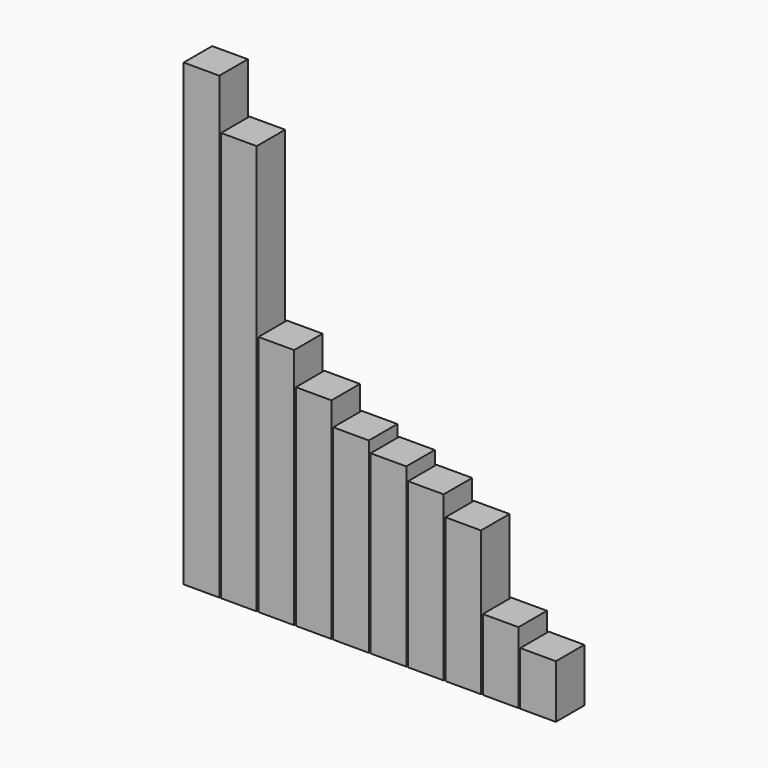
from build123d import *

# Parameters (mm, degrees)
F0_W      = 5.08
F0_H      = 5.08
F2_DEPTH  = 65.532
F1_W      = 5.08
F1_H      = 5.08
F3_DEPTH  = 58.42
F4_DEPTH  = 34.544
F5_DEPTH  = 29.972
F6_DEPTH  = 26.67
F7_DEPTH  = 25.146
F8_DEPTH  = 23.368
F9_DEPTH  = 20.574
F10_DEPTH = 10.16
F11_DEPTH = 7.62


with BuildPart() as f2:
    # F0 (on Top) → F2 (new body)
    with BuildSketch(Plane.XY):
        with Locations((2.54, -2.54)):
            Rectangle(F0_W, F0_H)
    extrude(amount=F2_DEPTH)


with BuildPart() as f3:
    # F1 (on Top) → F3 (new body)
    with BuildSketch(Plane.XY):
        with Locations((7.874, -2.54)):
            Rectangle(F1_W, F1_H)
    extrude(amount=F3_DEPTH)


with BuildPart() as f4:
    # F1 (on Top) → F4 (new body)
    with BuildSketch(Plane.XY):
        with Locations((13.208, -2.54)):
            Rectangle(F1_W, F1_H)
    extrude(amount=F4_DEPTH)


with BuildPart() as f5:
    # F1 (on Top) → F5 (new body)
    with BuildSketch(Plane.XY):
        with Locations((18.542, -2.54)):
            Rectangle(F1_W, F1_H)
    extrude(amount=F5_DEPTH)


with BuildPart() as f6:
    # F1 (on Top) → F6 (new body)
    with BuildSketch(Plane.XY):
        with Locations((23.876, -2.54)):
            Rectangle(F1_W, F1_H)
    extrude(amount=F6_DEPTH)


with BuildPart() as f7:
    # F1 (on Top) → F7 (new body)
    with BuildSketch(Plane.XY):
        with Locations((29.21, -2.54)):
            Rectangle(F1_W, F1_H)
    extrude(amount=F7_DEPTH)


with BuildPart() as f8:
    # F1 (on Top) → F8 (new body)
    with BuildSketch(Plane.XY):
        with Locations((34.544, -2.54)):
            Rectangle(F1_W, F1_H)
    extrude(amount=F8_DEPTH)


with BuildPart() as f9:
    # F1 (on Top) → F9 (new body)
    with BuildSketch(Plane.XY):
        with Locations((39.878, -2.54)):
            Rectangle(F1_W, F1_H)
    extrude(amount=F9_DEPTH)


with BuildPart() as f10:
    # F1 (on Top) → F10 (new body)
    with BuildSketch(Plane.XY):
        with Locations((45.212, -2.54)):
            Rectangle(F1_W, F1_H)
    extrude(amount=F10_DEPTH)


with BuildPart() as f11:
    # F1 (on Top) → F11 (new body)
    with BuildSketch(Plane.XY):
        with Locations((50.546, -2.54)):
            Rectangle(F1_W, F1_H)
    extrude(amount=F11_DEPTH)


solid = Compound([f2.part, f3.part, f4.part, f5.part, f6.part, f7.part, f8.part, f9.part, f10.part, f11.part])
